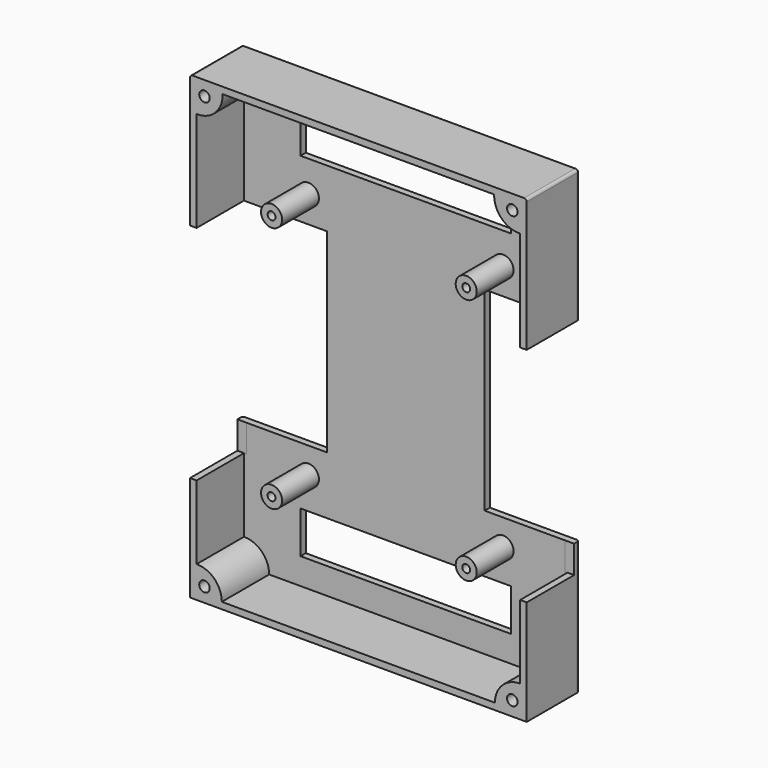
from build123d import *

# Parameters (mm, degrees)
F0_W      = 128
F0_H      = 175
F1_DEPTH  = 25
F2_T      = -2.5
F3_R      = 4
F3_R_2    = 1.5
F4_DEPTH  = 20
F7_DEPTH  = 25
F8_R      = 2
F9_DEPTH  = 25
F11_W     = 40
F11_H     = 74
F11_W_2   = 80
F11_H_2   = 15.985015
F12_DEPTH = 36
F13_R     = 1
F15_W     = 5.084744
F15_H     = 25.423729
F16_DEPTH = 47.5


with BuildPart() as f1:
    # F0 (on Front) → F1 (new body)
    with BuildSketch(Plane.XZ):
        Rectangle(F0_W, F0_H)
    extrude(amount=F1_DEPTH)

    # F2
    f2_openings = [f1.faces().sort_by_distance(p)[0] for p in [
        (0, -25, 0),
    ]]
    offset(amount=F2_T, openings=f2_openings)

    # F3 (on Front) → F4 (join)
    with BuildSketch(Plane.XZ):
        with Locations((-37, 47)):
            Circle(F3_R)
        with Locations((-37, 47)):
            Circle(F3_R_2, mode=Mode.SUBTRACT)
        with Locations((37, 47)):
            Circle(F3_R)
        with Locations((37, 47)):
            Circle(F3_R_2, mode=Mode.SUBTRACT)
        with Locations((37, -47)):
            Circle(F3_R)
        with Locations((37, -47)):
            Circle(F3_R_2, mode=Mode.SUBTRACT)
        with Locations((-37, -47)):
            Circle(F3_R)
        with Locations((-37, -47)):
            Circle(F3_R_2, mode=Mode.SUBTRACT)
    extrude(amount=F4_DEPTH)

    # F6 (on Front) → F7 (join)
    with BuildSketch(Plane.XZ):
        with BuildLine():
            Line((-61.93007, -75.520713), (-61.93007, -85.520713))
            Line((-61.93007, -85.520713), (-51.93007, -85.520713))
            ThreePointArc((-51.93007, -85.520713), (-54.690152, -78.280795), (-61.93007, -75.520713))
        make_face()
        with BuildLine():
            ThreePointArc((61.93007, -75.520713), (54.690152, -78.280795), (51.93007, -85.520713))
            Line((51.93007, -85.520713), (61.93007, -85.520713))
            Line((61.93007, -85.520713), (61.93007, -75.520713))
        make_face()
        with BuildLine():
            ThreePointArc((-61.6409, 75.150812), (-54.400982, 77.910894), (-51.6409, 85.150812))
            Line((-51.6409, 85.150812), (-61.6409, 85.150812))
            Line((-61.6409, 85.150812), (-61.6409, 75.150812))
        make_face()
        with BuildLine():
            Line((61.6409, 75.150812), (61.6409, 85.150812))
            Line((61.6409, 85.150812), (51.6409, 85.150812))
            ThreePointArc((51.6409, 85.150812), (54.400982, 77.910894), (61.6409, 75.150812))
        make_face()
    extrude(amount=F7_DEPTH)

    # F8 (on Front) → F9 (cut)
    with BuildSketch(Plane.XZ):
        with Locations((-58.5, 82)):
            Circle(F8_R)
        with Locations((-58.5, -82)):
            Circle(F8_R)
        with Locations((58.5, -82)):
            Circle(F8_R)
        with Locations((58.5, 82)):
            Circle(F8_R)
    extrude(amount=F9_DEPTH, mode=Mode.SUBTRACT)

    # F11 (on offset) → F12 (cut)
    with BuildSketch(Plane.XZ.offset(-10)):
        with Locations((-50, 0)):
            Rectangle(F11_W, F11_H)
        with Locations((50, 0)):
            Rectangle(F11_W, F11_H)
        with Locations((0, 67.007492)):
            Rectangle(F11_W_2, F11_H_2)
        with Locations((0, -67.007492)):
            Rectangle(F11_W_2, F11_H_2)
    extrude(amount=F12_DEPTH, mode=Mode.SUBTRACT)

    # F13
    f13_edges = [f1.edges().sort_by_distance(p)[0] for p in [
        (64, -12.5, 87.5),
        (0, 0, 87.5),
        (64, 0, 62.25),
        (64, 0, -62.25),
        (0, 0, -87.5),
        (-64, 0, 62.25),
        (-64, 0, -62.25),
        (-64, -12.5, 87.5),
    ]]
    fillet(f13_edges, radius=F13_R)

    # F15 (on Top) → F16 (cut)
    with BuildSketch(Plane.XY):
        with Locations((-63.120628, -15.211864)):
            Rectangle(F15_W, F15_H)
        with Locations((63.120628, -15.211864)):
            Rectangle(F15_W, F15_H)
    extrude(amount=-F16_DEPTH, mode=Mode.SUBTRACT)


solid = f1.part
